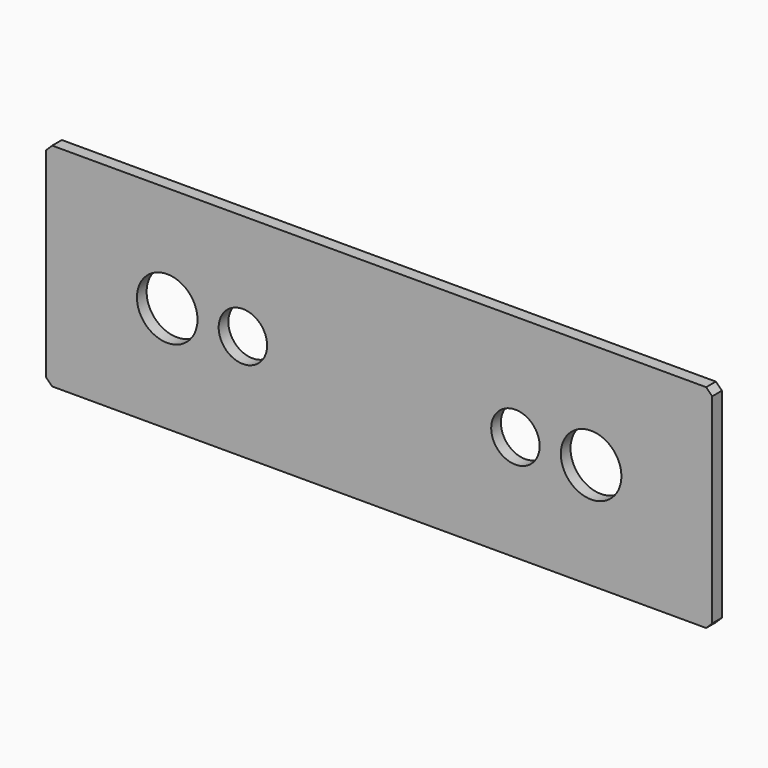
from build123d import *

# Parameters (mm, degrees)
F0_W     = 10
F0_H     = 35.0110880776
F0_W_2   = 90
F0_R     = 5
F1_DEPTH = 2
F2_SIZE  = 1


with BuildPart() as f1:
    # F0 (on Front) → F1 (new body)
    with BuildSketch(Plane.XZ):
        with Locations((-50, 0)):
            Rectangle(F0_W, F0_H)
        Rectangle(F0_W_2, F0_H)
        with Locations((-35, 0)):
            Circle(F0_R, mode=Mode.SUBTRACT)
        with BuildLine():
            ThreePointArc((-26.5, 0), (-22.5, 4), (-18.5, 0))
            ThreePointArc((-18.5, 0), (-22.5, -4), (-26.5, 0))
        make_face(mode=Mode.SUBTRACT)
        with BuildLine():
            ThreePointArc((26.5, 0), (22.5, -4), (18.5, 0))
            ThreePointArc((18.5, 0), (22.5, 4), (26.5, 0))
        make_face(mode=Mode.SUBTRACT)
        with BuildLine():
            ThreePointArc((40, 0), (35, -5), (30, 0))
            ThreePointArc((30, 0), (35, 5), (40, 0))
        make_face(mode=Mode.SUBTRACT)
        with Locations((50, 0)):
            Rectangle(F0_W, F0_H)
    extrude(amount=-F1_DEPTH)

    # F2
    f2_edges = [f1.edges().sort_by_distance(p)[0] for p in [
        (55, 1, 17.505544),
        (55, 1, -17.505544),
        (-55, 1, -17.505544),
        (-55, 1, 17.505544),
    ]]
    chamfer(f2_edges, length=F2_SIZE)


solid = f1.part
